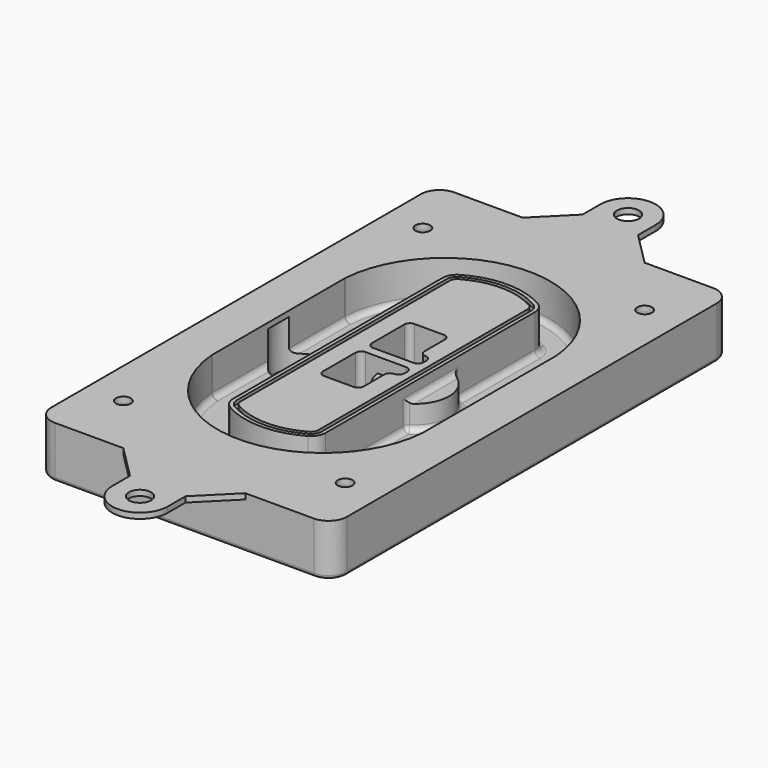
from build123d import *

# Parameters (mm, degrees)
F0_R      = 4
F1_DEPTH  = 25
F2_DEPTH  = 3
F3_DEPTH  = 18
F5_DEPTH  = 21
F6_DEPTH  = 2
F8_DEPTH  = 20
F9_DEPTH  = 16
F10_DEPTH = 25
F7_R      = 6
F7_R_2    = 4
F11_DEPTH = 6
F13_DEPTH = 9
F14_R     = 3
F15_R     = 2
F16_R     = 6
F16_R_2   = 4
F17_DEPTH = 3


with BuildPart() as f1:
    # F0 (on Top) → F1 (new body)
    with BuildSketch(Plane.XY):
        with BuildLine():
            ThreePointArc((-80, -125), (-77.0710678119, -132.0710678119), (-70, -135))
            Line((-70, -135), (70, -135))
            ThreePointArc((70, -135), (77.0710678119, -132.0710678119), (80, -125))
            Line((80, -125), (80, 125))
            ThreePointArc((80, 125), (77.0710678119, 132.0710678119), (70, 135))
            Line((70, 135), (-70, 135))
            ThreePointArc((-70, 135), (-77.0710678119, 132.0710678119), (-80, 125))
            Line((-80, 125), (-80, -125))
        make_face()
        with Locations((-60, -101.25)):
            Circle(F0_R, mode=Mode.SUBTRACT)
        with Locations((60, -101.25)):
            Circle(F0_R, mode=Mode.SUBTRACT)
        with Locations((-60, 101.25)):
            Circle(F0_R, mode=Mode.SUBTRACT)
        with BuildLine():
            ThreePointArc((-64, 44.6627429245), (-63.991269098, 45.1571001106), (-63.9650872818, 45.650840699))
            ThreePointArc((-63.9650872818, 45.650840699), (0, 105.25), (63.9650872818, 45.650840699))
            ThreePointArc((63.9650872818, 45.650840699), (63.991269098, 45.1571001106), (64, 44.6627429245))
            Line((64, 44.6627429245), (64, -44.6627429245))
            ThreePointArc((64, -44.6627429245), (63.991269098, -45.1571001106), (63.9650872818, -45.650840699))
            ThreePointArc((63.9650872818, -45.650840699), (0, -105.25), (-63.9650872818, -45.650840699))
            ThreePointArc((-63.9650872818, -45.650840699), (-63.991269098, -45.1571001106), (-64, -44.6627429245))
            Line((-64, -44.6627429245), (-64, 44.6627429245))
        make_face(mode=Mode.SUBTRACT)
        with Locations((60, 101.25)):
            Circle(F0_R, mode=Mode.SUBTRACT)
        with BuildLine():
            ThreePointArc((63.9650872818, 45.650840699), (0, 105.25), (-63.9650872818, 45.650840699))
            ThreePointArc((-63.9650872818, 45.650840699), (-63.991269098, 45.1571001106), (-64, 44.6627429245))
            Line((-64, 44.6627429245), (-64, -44.6627429245))
            ThreePointArc((-64, -44.6627429245), (-63.991269098, -45.1571001106), (-63.9650872818, -45.650840699))
            ThreePointArc((-63.9650872818, -45.650840699), (0, -105.25), (63.9650872818, -45.650840699))
            ThreePointArc((63.9650872818, -45.650840699), (63.991269098, -45.1571001106), (64, -44.6627429245))
            Line((64, -44.6627429245), (64, 44.6627429245))
            ThreePointArc((64, 44.6627429245), (63.991269098, 45.1571001106), (63.9650872818, 45.650840699))
        make_face()
        with BuildLine():
            Line((-60, -44.6627429245), (-60, 44.6627429245))
            ThreePointArc((-60, 44.6627429245), (-59.9937636414, 45.0158552003), (-59.9750623441, 45.3685270491))
            ThreePointArc((-59.9750623441, 45.3685270491), (0, 101.25), (59.9750623441, 45.3685270491))
            ThreePointArc((59.9750623441, 45.3685270491), (59.9937636414, 45.0158552003), (60, 44.6627429245))
            Line((60, 44.6627429245), (60, -44.6627429245))
            ThreePointArc((60, -44.6627429245), (59.9937636414, -45.0158552003), (59.9750623441, -45.3685270491))
            ThreePointArc((59.9750623441, -45.3685270491), (0, -101.25), (-59.9750623441, -45.3685270491))
            ThreePointArc((-59.9750623441, -45.3685270491), (-59.9937636414, -45.0158552003), (-60, -44.6627429245))
        make_face(mode=Mode.SUBTRACT)
        with BuildLine():
            ThreePointArc((-59.9750623441, 45.3685270491), (-59.9937636414, 45.0158552003), (-60, 44.6627429245))
            Line((-60, 44.6627429245), (-60, -44.6627429245))
            ThreePointArc((-60, -44.6627429245), (-59.9937636414, -45.0158552003), (-59.9750623441, -45.3685270491))
            ThreePointArc((-59.9750623441, -45.3685270491), (0, -101.25), (59.9750623441, -45.3685270491))
            ThreePointArc((59.9750623441, -45.3685270491), (59.9937636414, -45.0158552003), (60, -44.6627429245))
            Line((60, -44.6627429245), (60, 44.6627429245))
            ThreePointArc((60, 44.6627429245), (59.9937636414, 45.0158552003), (59.9750623441, 45.3685270491))
            ThreePointArc((59.9750623441, 45.3685270491), (0, 101.25), (-59.9750623441, 45.3685270491))
        make_face()
        with BuildLine():
            ThreePointArc((56.9825436409, 45.1567918117), (56.995634549, 44.9099215176), (57, 44.6627429245))
            Line((57, 44.6627429245), (57, -44.6627429245))
            ThreePointArc((57, -44.6627429245), (56.995634549, -44.9099215176), (56.9825436409, -45.1567918117))
            ThreePointArc((56.9825436409, -45.1567918117), (0, -98.25), (-56.9825436409, -45.1567918117))
            ThreePointArc((-56.9825436409, -45.1567918117), (-56.995634549, -44.9099215176), (-57, -44.6627429245))
            Line((-57, -44.6627429245), (-57, 44.6627429245))
            ThreePointArc((-57, 44.6627429245), (-56.995634549, 44.9099215176), (-56.9825436409, 45.1567918117))
            ThreePointArc((-56.9825436409, 45.1567918117), (0, 98.25), (56.9825436409, 45.1567918117))
        make_face(mode=Mode.SUBTRACT)
        with BuildLine():
            Line((57, -44.6627429245), (57, 44.6627429245))
            ThreePointArc((57, 44.6627429245), (56.995634549, 44.9099215176), (56.9825436409, 45.1567918117))
            ThreePointArc((56.9825436409, 45.1567918117), (0, 98.25), (-56.9825436409, 45.1567918117))
            ThreePointArc((-56.9825436409, 45.1567918117), (-56.995634549, 44.9099215176), (-57, 44.6627429245))
            Line((-57, 44.6627429245), (-57, -44.6627429245))
            ThreePointArc((-57, -44.6627429245), (-56.995634549, -44.9099215176), (-56.9825436409, -45.1567918117))
            ThreePointArc((-56.9825436409, -45.1567918117), (0, -98.25), (56.9825436409, -45.1567918117))
            ThreePointArc((56.9825436409, -45.1567918117), (56.995634549, -44.9099215176), (57, -44.6627429245))
        make_face()
    extrude(amount=-F1_DEPTH)

    # F0 (on Top) → F2 (join)
    with BuildSketch(Plane.XY):
        with BuildLine():
            ThreePointArc((-59.9750623441, 45.3685270491), (-59.9937636414, 45.0158552003), (-60, 44.6627429245))
            Line((-60, 44.6627429245), (-60, -44.6627429245))
            ThreePointArc((-60, -44.6627429245), (-59.9937636414, -45.0158552003), (-59.9750623441, -45.3685270491))
            ThreePointArc((-59.9750623441, -45.3685270491), (0, -101.25), (59.9750623441, -45.3685270491))
            ThreePointArc((59.9750623441, -45.3685270491), (59.9937636414, -45.0158552003), (60, -44.6627429245))
            Line((60, -44.6627429245), (60, 44.6627429245))
            ThreePointArc((60, 44.6627429245), (59.9937636414, 45.0158552003), (59.9750623441, 45.3685270491))
            ThreePointArc((59.9750623441, 45.3685270491), (0, 101.25), (-59.9750623441, 45.3685270491))
        make_face()
        with BuildLine():
            ThreePointArc((56.9825436409, 45.1567918117), (56.995634549, 44.9099215176), (57, 44.6627429245))
            Line((57, 44.6627429245), (57, -44.6627429245))
            ThreePointArc((57, -44.6627429245), (56.995634549, -44.9099215176), (56.9825436409, -45.1567918117))
            ThreePointArc((56.9825436409, -45.1567918117), (0, -98.25), (-56.9825436409, -45.1567918117))
            ThreePointArc((-56.9825436409, -45.1567918117), (-56.995634549, -44.9099215176), (-57, -44.6627429245))
            Line((-57, -44.6627429245), (-57, 44.6627429245))
            ThreePointArc((-57, 44.6627429245), (-56.995634549, 44.9099215176), (-56.9825436409, 45.1567918117))
            ThreePointArc((-56.9825436409, 45.1567918117), (0, 98.25), (56.9825436409, 45.1567918117))
        make_face(mode=Mode.SUBTRACT)
    extrude(amount=F2_DEPTH)

    # F0 (on Top) → F3 (cut)
    with BuildSketch(Plane.XY):
        with BuildLine():
            Line((57, -44.6627429245), (57, 44.6627429245))
            ThreePointArc((57, 44.6627429245), (56.995634549, 44.9099215176), (56.9825436409, 45.1567918117))
            ThreePointArc((56.9825436409, 45.1567918117), (0, 98.25), (-56.9825436409, 45.1567918117))
            ThreePointArc((-56.9825436409, 45.1567918117), (-56.995634549, 44.9099215176), (-57, 44.6627429245))
            Line((-57, 44.6627429245), (-57, -44.6627429245))
            ThreePointArc((-57, -44.6627429245), (-56.995634549, -44.9099215176), (-56.9825436409, -45.1567918117))
            ThreePointArc((-56.9825436409, -45.1567918117), (0, -98.25), (56.9825436409, -45.1567918117))
            ThreePointArc((56.9825436409, -45.1567918117), (56.995634549, -44.9099215176), (57, -44.6627429245))
        make_face()
    extrude(amount=-F3_DEPTH, mode=Mode.SUBTRACT)

    # F4 (on face) → F5 (join, through all)
    with BuildSketch(Plane.XY.offset(3)):
        with BuildLine():
            ThreePointArc((-25, -70.7141132851), (-23.9239722661, -74.7214325959), (-20.9853479853, -77.6507552274))
            ThreePointArc((-20.9853479853, -77.6507552274), (0, -83.25), (20.9853479853, -77.6507552274))
            ThreePointArc((20.9853479853, -77.6507552274), (23.9239722661, -74.7214325959), (25, -70.7141132851))
            Line((25, -70.7141132851), (25, 70.7141132851))
            ThreePointArc((25, 70.7141132851), (23.9239722661, 74.7214325959), (20.9853479853, 77.6507552274))
            ThreePointArc((20.9853479853, 77.6507552274), (0, 83.25), (-20.9853479853, 77.6507552274))
            ThreePointArc((-20.9853479853, 77.6507552274), (-23.9239722661, 74.7214325959), (-25, 70.7141132851))
            Line((-25, 70.7141132851), (-25, -70.7141132851))
        make_face()
        with BuildLine():
            ThreePointArc((19.989010989, 75.9165947419), (22.1929791996, 73.7196027682), (23, 70.7141132851))
            Line((23, 70.7141132851), (23, -70.7141132851))
            ThreePointArc((23, -70.7141132851), (22.1929791996, -73.7196027682), (19.989010989, -75.9165947419))
            ThreePointArc((19.989010989, -75.9165947419), (0, -81.25), (-19.989010989, -75.9165947419))
            ThreePointArc((-19.989010989, -75.9165947419), (-22.1929791996, -73.7196027682), (-23, -70.7141132851))
            Line((-23, -70.7141132851), (-23, 70.7141132851))
            ThreePointArc((-23, 70.7141132851), (-22.1929791996, 73.7196027682), (-19.989010989, 75.9165947419))
            ThreePointArc((-19.989010989, 75.9165947419), (0, 81.25), (19.989010989, 75.9165947419))
        make_face(mode=Mode.SUBTRACT)
        with BuildLine():
            Line((23, -70.7141132851), (23, 70.7141132851))
            ThreePointArc((23, 70.7141132851), (22.1929791996, 73.7196027682), (19.989010989, 75.9165947419))
            ThreePointArc((19.989010989, 75.9165947419), (0, 81.25), (-19.989010989, 75.9165947419))
            ThreePointArc((-19.989010989, 75.9165947419), (-22.1929791996, 73.7196027682), (-23, 70.7141132851))
            Line((-23, 70.7141132851), (-23, -70.7141132851))
            ThreePointArc((-23, -70.7141132851), (-22.1929791996, -73.7196027682), (-19.989010989, -75.9165947419))
            ThreePointArc((-19.989010989, -75.9165947419), (0, -81.25), (19.989010989, -75.9165947419))
            ThreePointArc((19.989010989, -75.9165947419), (22.1929791996, -73.7196027682), (23, -70.7141132851))
        make_face()
        with BuildLine():
            ThreePointArc((18.9926739927, 74.1824342563), (20.461986133, 72.7177729405), (21, 70.7141132851))
            Line((21, 70.7141132851), (21, -70.7141132851))
            ThreePointArc((21, -70.7141132851), (20.461986133, -72.7177729405), (18.9926739927, -74.1824342563))
            ThreePointArc((18.9926739927, -74.1824342563), (0, -79.25), (-18.9926739927, -74.1824342563))
            ThreePointArc((-18.9926739927, -74.1824342563), (-20.461986133, -72.7177729405), (-21, -70.7141132851))
            Line((-21, -70.7141132851), (-21, 70.7141132851))
            ThreePointArc((-21, 70.7141132851), (-20.461986133, 72.7177729405), (-18.9926739927, 74.1824342563))
            ThreePointArc((-18.9926739927, 74.1824342563), (0, 79.25), (18.9926739927, 74.1824342563))
        make_face(mode=Mode.SUBTRACT)
        with BuildLine():
            Line((21, -70.7141132851), (21, 70.7141132851))
            ThreePointArc((21, 70.7141132851), (20.461986133, 72.7177729405), (18.9926739927, 74.1824342563))
            ThreePointArc((18.9926739927, 74.1824342563), (0, 79.25), (-18.9926739927, 74.1824342563))
            ThreePointArc((-18.9926739927, 74.1824342563), (-20.461986133, 72.7177729405), (-21, 70.7141132851))
            Line((-21, 70.7141132851), (-21, -70.7141132851))
            ThreePointArc((-21, -70.7141132851), (-20.461986133, -72.7177729405), (-18.9926739927, -74.1824342563))
            ThreePointArc((-18.9926739927, -74.1824342563), (0, -79.25), (18.9926739927, -74.1824342563))
            ThreePointArc((18.9926739927, -74.1824342563), (20.461986133, -72.7177729405), (21, -70.7141132851))
        make_face()
        with BuildLine():
            Line((-8, -2.5), (14, -2.5))
            ThreePointArc((14, -2.5), (16.1213203436, -3.3786796564), (17, -5.5))
            Line((17, -5.5), (17, -7.5))
            ThreePointArc((17, -7.5), (16.1213203436, -9.6213203436), (14, -10.5))
            ThreePointArc((14, -10.5), (11.8786796564, -11.3786796564), (11, -13.5))
            Line((11, -13.5), (11, -27.5))
            ThreePointArc((11, -27.5), (10.1213203436, -29.6213203436), (8, -30.5))
            Line((8, -30.5), (-8, -30.5))
            ThreePointArc((-8, -30.5), (-10.1213203436, -29.6213203436), (-11, -27.5))
            Line((-11, -27.5), (-11, -5.5))
            ThreePointArc((-11, -5.5), (-10.1213203436, -3.3786796564), (-8, -2.5))
        make_face(mode=Mode.SUBTRACT)
        with BuildLine():
            ThreePointArc((-8, 2.5), (-10.1213203436, 3.3786796564), (-11, 5.5))
            Line((-11, 5.5), (-11, 27.5))
            ThreePointArc((-11, 27.5), (-10.1213203436, 29.6213203436), (-8, 30.5))
            Line((-8, 30.5), (8, 30.5))
            ThreePointArc((8, 30.5), (10.1213203436, 29.6213203436), (11, 27.5))
            Line((11, 27.5), (11, 13.5))
            ThreePointArc((11, 13.5), (11.8786796564, 11.3786796564), (14, 10.5))
            ThreePointArc((14, 10.5), (16.1213203436, 9.6213203436), (17, 7.5))
            Line((17, 7.5), (17, 5.5))
            ThreePointArc((17, 5.5), (16.1213203436, 3.3786796564), (14, 2.5))
            Line((14, 2.5), (-8, 2.5))
        make_face(mode=Mode.SUBTRACT)
    extrude(amount=-F5_DEPTH)

    # F4 (on face) → F6 (cut)
    with BuildSketch(Plane.XY.offset(3)):
        with BuildLine():
            Line((23, -70.7141132851), (23, 70.7141132851))
            ThreePointArc((23, 70.7141132851), (22.1929791996, 73.7196027682), (19.989010989, 75.9165947419))
            ThreePointArc((19.989010989, 75.9165947419), (0, 81.25), (-19.989010989, 75.9165947419))
            ThreePointArc((-19.989010989, 75.9165947419), (-22.1929791996, 73.7196027682), (-23, 70.7141132851))
            Line((-23, 70.7141132851), (-23, -70.7141132851))
            ThreePointArc((-23, -70.7141132851), (-22.1929791996, -73.7196027682), (-19.989010989, -75.9165947419))
            ThreePointArc((-19.989010989, -75.9165947419), (0, -81.25), (19.989010989, -75.9165947419))
            ThreePointArc((19.989010989, -75.9165947419), (22.1929791996, -73.7196027682), (23, -70.7141132851))
        make_face()
        with BuildLine():
            ThreePointArc((18.9926739927, 74.1824342563), (20.461986133, 72.7177729405), (21, 70.7141132851))
            Line((21, 70.7141132851), (21, -70.7141132851))
            ThreePointArc((21, -70.7141132851), (20.461986133, -72.7177729405), (18.9926739927, -74.1824342563))
            ThreePointArc((18.9926739927, -74.1824342563), (0, -79.25), (-18.9926739927, -74.1824342563))
            ThreePointArc((-18.9926739927, -74.1824342563), (-20.461986133, -72.7177729405), (-21, -70.7141132851))
            Line((-21, -70.7141132851), (-21, 70.7141132851))
            ThreePointArc((-21, 70.7141132851), (-20.461986133, 72.7177729405), (-18.9926739927, 74.1824342563))
            ThreePointArc((-18.9926739927, 74.1824342563), (0, 79.25), (18.9926739927, 74.1824342563))
        make_face(mode=Mode.SUBTRACT)
    extrude(amount=-F6_DEPTH, mode=Mode.SUBTRACT)

    # F7 (on face) → F8 (join)
    with BuildSketch(Plane(origin=(0, 0, -25), x_dir=(1, 0, 0), z_dir=(0, 0, -1))):
        with BuildLine():
            ThreePointArc((3.28842436, 0), (16.7567035675, 13.4682792075), (30.224982775, 0))
            Line((30.224982775, 0), (35.224982775, 0))
            ThreePointArc((35.224982775, 0), (16.7567035675, 18.4682792075), (-1.71157564, 0))
            Line((-1.71157564, 0), (3.28842436, 0))
        make_face()
        with BuildLine():
            Line((3.28842436, 0), (30.224982775, 0))
            ThreePointArc((30.224982775, 0), (16.7567035675, 13.4682792075), (3.28842436, 0))
        make_face()
        with BuildLine():
            ThreePointArc((3.28842436, 0), (16.7567035675, -13.4682792075), (30.224982775, 0))
            Line((30.224982775, 0), (3.28842436, 0))
        make_face()
        with BuildLine():
            Line((35.224982775, 0), (30.224982775, 0))
            ThreePointArc((30.224982775, 0), (16.7567035675, -13.4682792075), (3.28842436, 0))
            Line((3.28842436, 0), (-1.71157564, 0))
            ThreePointArc((-1.71157564, 0), (16.7567035675, -18.4682792075), (35.224982775, 0))
        make_face()
    extrude(amount=-F8_DEPTH)

    # F7 (on face) → F9 (cut)
    with BuildSketch(Plane(origin=(0, 0, -25), x_dir=(1, 0, 0), z_dir=(0, 0, -1))):
        with BuildLine():
            Line((3.28842436, 0), (30.224982775, 0))
            ThreePointArc((30.224982775, 0), (16.7567035675, 13.4682792075), (3.28842436, 0))
        make_face()
        with BuildLine():
            ThreePointArc((3.28842436, 0), (16.7567035675, -13.4682792075), (30.224982775, 0))
            Line((30.224982775, 0), (3.28842436, 0))
        make_face()
    extrude(amount=-F9_DEPTH, mode=Mode.SUBTRACT)

    # F7 (on face) → F10 (cut)
    with BuildSketch(Plane(origin=(0, 0, -25), x_dir=(1, 0, 0), z_dir=(0, 0, -1))):
        with BuildLine():
            Line((-59.0318229325, 0), (-32.0952645175, 0))
            ThreePointArc((-32.0952645175, 0), (-45.563543725, 13.4682792075), (-59.0318229325, 0))
        make_face()
        with BuildLine():
            ThreePointArc((-59.0318229325, 0), (-45.563543725, -13.4682792075), (-32.0952645175, 0))
            Line((-32.0952645175, 0), (-59.0318229325, 0))
        make_face()
    extrude(amount=-F10_DEPTH, mode=Mode.SUBTRACT)

    # F7 (on face) → F11 (cut)
    with BuildSketch(Plane(origin=(0, 0, -25), x_dir=(1, 0, 0), z_dir=(0, 0, -1))):
        with Locations((60, -101.25)):
            Circle(F7_R)
        with Locations((60, -101.25)):
            Circle(F7_R_2, mode=Mode.SUBTRACT)
        with Locations((60, -101.25)):
            Circle(F7_R)
        with Locations((60, -101.25)):
            Circle(F7_R_2, mode=Mode.SUBTRACT)
        with Locations((-60, -101.25)):
            Circle(F7_R)
        with Locations((-60, -101.25)):
            Circle(F7_R_2, mode=Mode.SUBTRACT)
        with Locations((-60, -101.25)):
            Circle(F7_R)
        with Locations((-60, -101.25)):
            Circle(F7_R_2, mode=Mode.SUBTRACT)
        with Locations((-60, 101.25)):
            Circle(F7_R)
        with Locations((-60, 101.25)):
            Circle(F7_R_2, mode=Mode.SUBTRACT)
        with Locations((-60, 101.25)):
            Circle(F7_R)
        with Locations((-60, 101.25)):
            Circle(F7_R_2, mode=Mode.SUBTRACT)
        with Locations((60, 101.25)):
            Circle(F7_R)
        with Locations((60, 101.25)):
            Circle(F7_R_2, mode=Mode.SUBTRACT)
        with Locations((60, 101.25)):
            Circle(F7_R)
        with Locations((60, 101.25)):
            Circle(F7_R_2, mode=Mode.SUBTRACT)
    extrude(amount=-F11_DEPTH, mode=Mode.SUBTRACT)

    # F12 (on face) → F13 (cut, through all)
    with BuildSketch(Plane(origin=(0, 0, -9), x_dir=(1, 0, 0), z_dir=(0, 0, -1))):
        with BuildLine():
            Line((11, 13.5), (11, 17.5481537753))
            ThreePointArc((11, 17.5481537753), (2.5696536419, 11.8239143813), (-1.5415842455, 2.5))
            Line((-1.5415842455, 2.5), (3.5224848595, 2.5))
            ThreePointArc((3.5224848595, 2.5), (6.1857188154, 8.3455872281), (11.2536447004, 12.2927168648))
            ThreePointArc((11.2536447004, 12.2927168648), (11.0640958889, 12.8831798879), (11, 13.5))
        make_face()
        with BuildLine():
            ThreePointArc((11.2536447004, -12.2927168648), (6.1857188154, -8.3455872281), (3.5224848595, -2.5))
            Line((3.5224848595, -2.5), (-1.5415842455, -2.5))
            ThreePointArc((-1.5415842455, -2.5), (2.5696536419, -11.8239143813), (11, -17.5481537753))
            Line((11, -17.5481537753), (11, -13.5))
            ThreePointArc((11, -13.5), (11.0640958889, -12.8831798879), (11.2536447004, -12.2927168648))
        make_face()
        with BuildLine():
            ThreePointArc((11.2536447004, 12.2927168648), (6.1857188154, 8.3455872281), (3.5224848595, 2.5))
            Line((3.5224848595, 2.5), (14, 2.5))
            ThreePointArc((14, 2.5), (16.1213203436, 3.3786796564), (17, 5.5))
            Line((17, 5.5), (17, 7.5))
            ThreePointArc((17, 7.5), (16.1213203436, 9.6213203436), (14, 10.5))
            ThreePointArc((14, 10.5), (12.3601599782, 10.9878446101), (11.2536447004, 12.2927168648))
        make_face()
        with BuildLine():
            Line((14, -2.5), (3.5224848595, -2.5))
            ThreePointArc((3.5224848595, -2.5), (6.1857188154, -8.3455872281), (11.2536447004, -12.2927168648))
            ThreePointArc((11.2536447004, -12.2927168648), (12.3601599782, -10.9878446101), (14, -10.5))
            ThreePointArc((14, -10.5), (16.1213203436, -9.6213203436), (17, -7.5))
            Line((17, -7.5), (17, -5.5))
            ThreePointArc((17, -5.5), (16.1213203436, -3.3786796564), (14, -2.5))
        make_face()
    extrude(amount=F13_DEPTH, mode=Mode.SUBTRACT)

    # F14
    f14_edges = [f1.edges().sort_by_distance(p)[0] for p in [
        (-57, -25.888126, -18),
        (-57, 25.888126, -18),
        (25, 0, -5),
        (25, 16.526506, -11.5),
        (25, -16.526506, -11.5),
        (25, -43.62031, -18),
        (35.224983, 0, -18),
    ]]
    fillet(f14_edges, radius=F14_R)

    # F15
    f15_edges = [f1.edges().sort_by_distance(p)[0] for p in [
        (0, -135, -25),
    ]]
    fillet(f15_edges, radius=F15_R)

    # F16 (on face) → F17 (join, through all)
    with BuildSketch(Plane.XY):
        with BuildLine():
            Line((-15, 153), (-33, 135))
            Line((-33, 135), (33, 135))
            Line((33, 135), (15, 153))
            Line((15, 153), (15, 165))
            ThreePointArc((15, 165), (0, 180), (-15, 165))
            Line((-15, 165), (-15, 153))
        make_face()
        with Locations((0, 165)):
            Circle(F16_R, mode=Mode.SUBTRACT)
        with BuildLine():
            Line((33, -135), (-33, -135))
            Line((-33, -135), (-15, -153))
            Line((-15, -153), (-15, -165))
            ThreePointArc((-15, -165), (0, -180), (15, -165))
            Line((15, -165), (15, -153))
            Line((15, -153), (33, -135))
        make_face()
        with Locations((0, -165)):
            Circle(F16_R, mode=Mode.SUBTRACT)
        with BuildLine():
            Line((33, 135), (-33, 135))
            Line((-33, 135), (-70, 135))
            ThreePointArc((-70, 135), (-77.0710678119, 132.0710678119), (-80, 125))
            Line((-80, 125), (-80, -125))
            ThreePointArc((-80, -125), (-77.0710678119, -132.0710678119), (-70, -135))
            Line((-70, -135), (-33, -135))
            Line((-33, -135), (33, -135))
            Line((33, -135), (70, -135))
            ThreePointArc((70, -135), (77.0710678119, -132.0710678119), (80, -125))
            Line((80, -125), (80, 125))
            ThreePointArc((80, 125), (77.0710678119, 132.0710678119), (70, 135))
            Line((70, 135), (33, 135))
        make_face()
        with Locations((-60, -101.25)):
            Circle(F16_R_2, mode=Mode.SUBTRACT)
        with Locations((60, -101.25)):
            Circle(F16_R_2, mode=Mode.SUBTRACT)
        with Locations((-60, 101.25)):
            Circle(F16_R_2, mode=Mode.SUBTRACT)
        with BuildLine():
            ThreePointArc((-60, 44.6627429245), (-59.9937636414, 45.0158552003), (-59.9750623441, 45.3685270491))
            ThreePointArc((-59.9750623441, 45.3685270491), (0, 101.25), (59.9750623441, 45.3685270491))
            ThreePointArc((59.9750623441, 45.3685270491), (59.9937636414, 45.0158552003), (60, 44.6627429245))
            Line((60, 44.6627429245), (60, -44.6627429245))
            ThreePointArc((60, -44.6627429245), (59.9937636414, -45.0158552003), (59.9750623441, -45.3685270491))
            ThreePointArc((59.9750623441, -45.3685270491), (0, -101.25), (-59.9750623441, -45.3685270491))
            ThreePointArc((-59.9750623441, -45.3685270491), (-59.9937636414, -45.0158552003), (-60, -44.6627429245))
            Line((-60, -44.6627429245), (-60, 44.6627429245))
        make_face(mode=Mode.SUBTRACT)
        with Locations((60, 101.25)):
            Circle(F16_R_2, mode=Mode.SUBTRACT)
    extrude(amount=F17_DEPTH)


solid = f1.part
